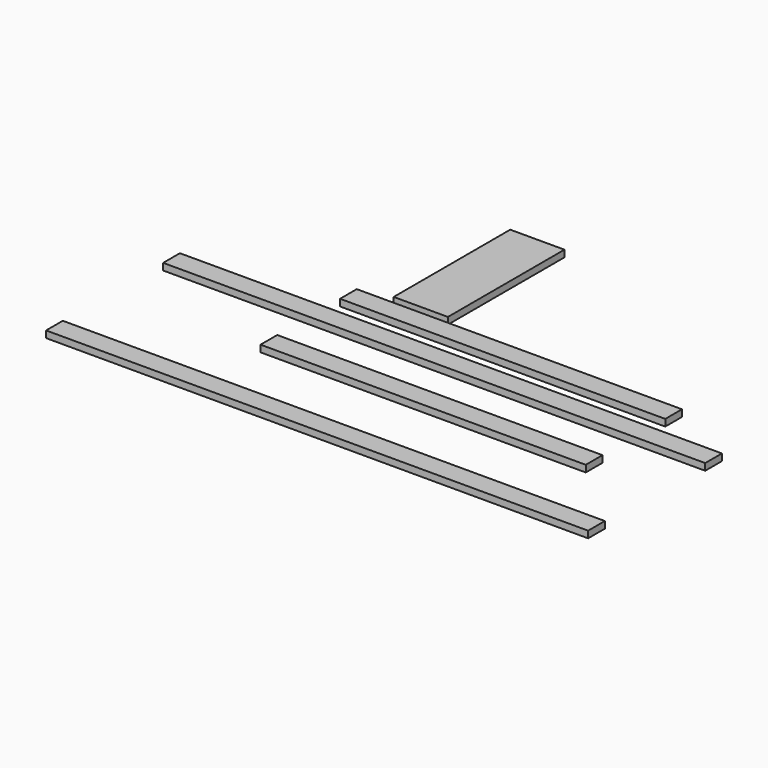
from build123d import *

# Parameters (mm, degrees)
F0_W     = 1524
F0_H     = 58.7375
F1_DEPTH = 19.05
F2_W     = 914.4
F2_H     = 58.7375
F3_DEPTH = 19.05
F4_W     = 152.4
F4_H     = 409.575
F5_DEPTH = 19.05


with BuildPart() as f1:
    # F0 (on Top) → F1 (new body)
    with BuildSketch(Plane.XY):
        with Locations((-10.172352, -28.468191)):
            Rectangle(F0_W, F0_H)
    extrude(amount=F1_DEPTH)


with BuildPart() as f3:
    # F2 (on Top) → F3 (new body)
    with BuildSketch(Plane.XY):
        with Locations((94.92887, 80.745033)):
            Rectangle(F2_W, F2_H)
    extrude(amount=F3_DEPTH)


with BuildPart() as f5:
    # F4 (on Top) → F5 (new body)
    with BuildSketch(Plane.XY):
        with Locations((-199.559894, 336.66761)):
            Rectangle(F4_W, F4_H)
    extrude(amount=F5_DEPTH)


with BuildPart() as f6_1:
    # F6: copy of F1
    add(f1.part.moved(Location((0, -411.48, 0))))


with BuildPart() as f7_1:
    # F7: copy of F3
    add(f3.part.moved(Location((0, -279.4, 0))))


solid = Compound([f1.part, f3.part, f5.part, f6_1.part, f7_1.part])
